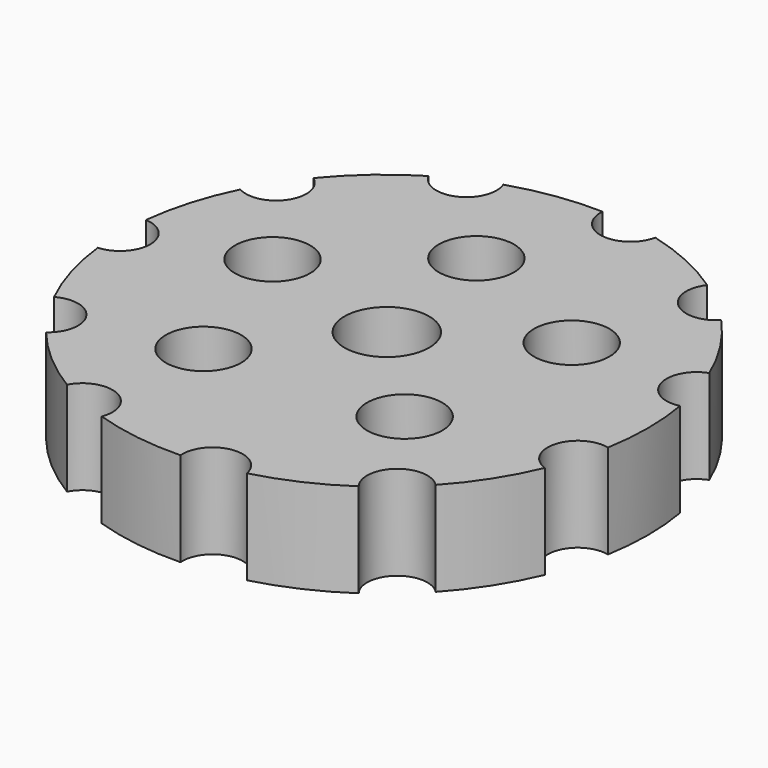
from build123d import *

# Parameters (mm, degrees)
CYLINDER009_R      = 3.2
CYLINDER009_DEPTH  = 10
ARRAY001_COUNT     = 11
CYLINDER010_R      = 28.02
CYLINDER010_DEPTH  = 10
SKETCH002_R        = 4.5
SKETCH002_R_2      = 4
POCKET001_DEPTH    = 10.001
SKETCH003_R        = 10
POCKET002002_DEPTH = 2


with BuildPart() as obj1:
    # Cylinder009 → Cylinder009 (new body)
    with BuildSketch(Plane.XY):
        Circle(CYLINDER009_R)
    extrude(amount=CYLINDER009_DEPTH)

    # Array001: obj1 ×11 about axis
    array001_axis = Axis((28.02, 0, 0), (0, 0, 1))


with BuildPart() as obj1_1:
    add(obj1.part)
    for i in range(1, ARRAY001_COUNT):
        add(obj1.part.rotate(array001_axis, i * 360 / ARRAY001_COUNT))


with BuildPart() as taladro_servohorn:
    # Cylinder010 → Cylinder010 (new body)
    with BuildSketch(Plane(origin=(28.02, 0, 0), x_dir=(1, 0, 0), z_dir=(0, 0, 1))):
        Circle(CYLINDER010_R)
    extrude(amount=CYLINDER010_DEPTH)

    # Cut007: cut obj1
    add(obj1_1.part, mode=Mode.SUBTRACT)

    # Sketch002 → Pocket001 (cut, through all)
    with BuildSketch(Plane.XY.offset(10)):
        with Locations((28.352856, -0.047906)):
            Circle(SKETCH002_R)
        with Locations((18.376312, -11.904833)):
            Circle(SKETCH002_R_2)
        with Locations((41.523029, 8.031758)):
            Circle(SKETCH002_R_2)
        with Locations((38.98872, -10.975584)):
            Circle(SKETCH002_R_2)
        with Locations((12.800824, 4.230289)):
            Circle(SKETCH002_R_2)
        with Locations((25.88417, 14.927018)):
            Circle(SKETCH002_R_2)
    extrude(amount=-POCKET001_DEPTH, mode=Mode.SUBTRACT)

    # Sketch003 → Pocket002002 (cut)
    with BuildSketch(Plane(origin=(0, 0, 0), x_dir=(1, 0, 0), z_dir=(0, 0, -1))):
        with Locations((28.02, 0.027806)):
            Circle(SKETCH003_R)
    extrude(amount=-POCKET002002_DEPTH, mode=Mode.SUBTRACT)


solid = taladro_servohorn.part
